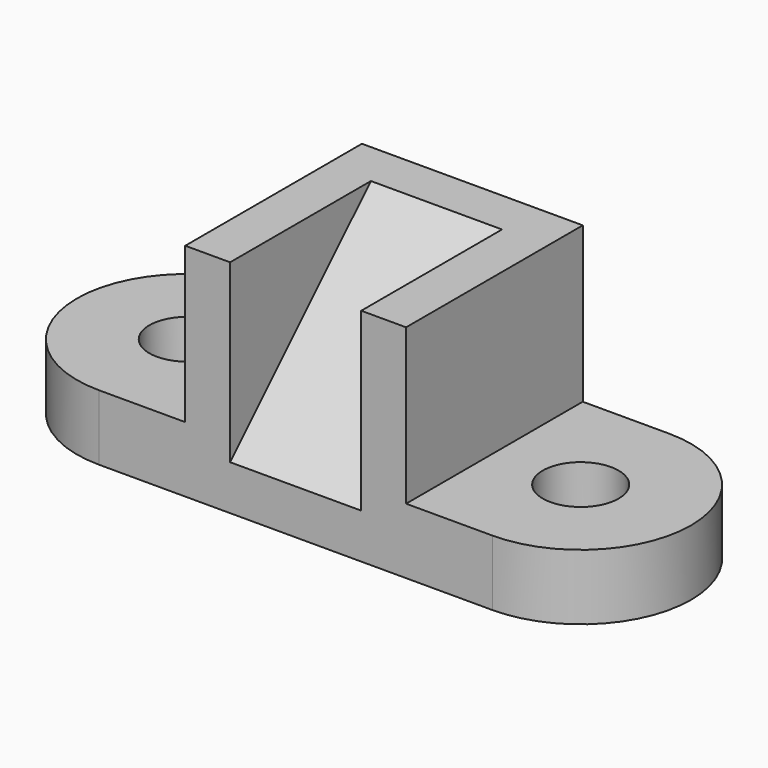
from build123d import *

# Parameters (mm, degrees)
F0_W       = 2895.6
F0_H       = 1625.6
F1_DEPTH   = 482.6
F2_W       = 1625.6
F2_H       = 1625.6
F3_DEPTH   = 1143
F4_W       = 965.2
F4_H       = 1295.4
F5_DEPTH   = 1295.4
F7_DEPTH   = 965.2
F9_R       = 279.4
F10_DEPTH  = 7620
F8_R       = 279.4
F11_DEPTH  = 15240
F11_FACE_R = 279.4
F12_DEPTH  = 20320


with BuildPart() as f1:
    # F0 (on Top) → F1 (new body)
    with BuildSketch(Plane.XY):
        Rectangle(F0_W, F0_H)
        with BuildLine():
            Line((-1447.8, -812.8), (-1447.8, 812.8))
            ThreePointArc((-1447.8, 812.8), (-2260.6, 0), (-1447.8, -812.8))
        make_face()
        with BuildLine():
            ThreePointArc((1447.8, -812.8), (2260.6, 0), (1447.8, 812.8))
            Line((1447.8, 812.8), (1447.8, -812.8))
        make_face()
    extrude(amount=F1_DEPTH)

    # F2 (on face) → F3 (join)
    with BuildSketch(Plane.XY.offset(482.6)):
        Rectangle(F2_W, F2_H)
    extrude(amount=F3_DEPTH)

    # F4 (on face) → F5 (cut)
    with BuildSketch(Plane.XY.offset(1625.6)):
        with Locations((0, -165.1)):
            Rectangle(F4_W, F4_H)
    extrude(amount=-F5_DEPTH, mode=Mode.SUBTRACT)

    # F6 (on face) → F7 (join)
    with BuildSketch(Plane.YZ.offset(-482.6)):
        Polygon((482.6, 330.2), (482.6, 1625.6), (-812.8, 330.2), align=None)
    extrude(amount=F7_DEPTH)

    # F9 (on face) → F10 (cut)
    with BuildSketch(Plane.XY.offset(482.6)):
        with Locations((-1447.8, 0)):
            Circle(F9_R)
    extrude(amount=-F10_DEPTH, mode=Mode.SUBTRACT)

    # F8 (on face) → F11 (join)
    with BuildSketch(Plane.XY.offset(482.6)):
        with Locations((1447.8, 0)):
            Circle(F8_R)
    extrude(amount=F11_DEPTH)

    # F11_face (on face) → F12 (cut)
    with BuildSketch(Plane(origin=(1447.8, 0, 15722.6), x_dir=(1, 0, 0), z_dir=(0, 0, 1))):
        Circle(F11_FACE_R)
    extrude(amount=-F12_DEPTH, mode=Mode.SUBTRACT)


solid = f1.part
